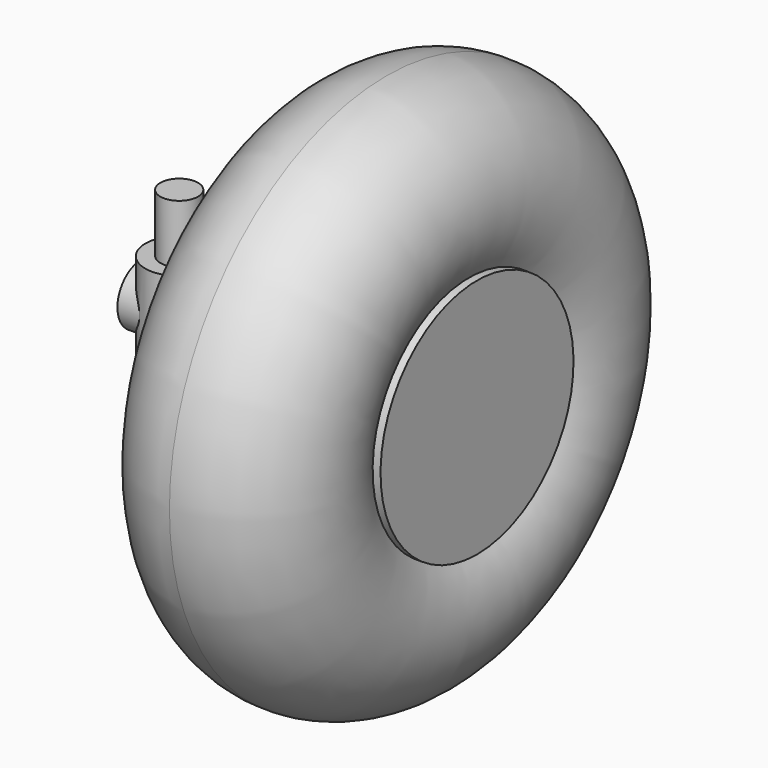
from build123d import *

# Parameters (mm, degrees)
TORUS001_R                = 13
CYLINDER001_R             = 4.5
CYLINDER001_DEPTH         = 12
CYLINDER002_R             = 4
CYLINDER002_DEPTH         = 10
PAD001_DEPTH              = 10
BOX_W                     = 8
BOX_H                     = 15.5
BOX_DEPTH                 = 2
CYLINDER004_R             = 2
CYLINDER004_DEPTH         = 7.5
CYLINDER_R                = 2.5
CYLINDER_DEPTH            = 27.5
CYLINDER003_R             = 1.5
CYLINDER003_DEPTH         = 20
CYLINDER016_R             = 4
CYLINDER016_DEPTH         = 2
BOX003_W                  = 4.6
BOX003_H                  = 1.7
BOX003_DEPTH              = 15
FILLET001_R               = 1
BOX002_W                  = 1.7
BOX002_H                  = 4.6
BOX002_DEPTH              = 15
FILLET_R                  = 1
CYLINDER017_R             = 1.5
CYLINDER017_DEPTH         = 10
PAD003_DEPTH              = 2.5
CYLINDER015_R             = 1.5
CYLINDER015_DEPTH         = 11
CYLINDER014_R             = 8
CYLINDER014_DEPTH         = 12
FILLET002_R               = 3
FUSION005_PLACEMENT_ANGLE = 90
CYLINDER012_R             = 16
CYLINDER012_DEPTH         = 20


with BuildPart() as toro001:
    # Torus001 → Torus001 (revolve)
    with BuildSketch(Plane(origin=(55, 0, 11), x_dir=(0, 0, -1), z_dir=(0, -1, 0))):
        with Locations((23, 0)):
            Circle(TORUS001_R)
    revolve(axis=Axis((55, 0, 11), (1, 0, 0)))


with BuildPart() as cilindro001:
    # Cylinder001 → Cylinder001 (new body)
    with BuildSketch(Plane.XY.offset(-6)):
        Circle(CYLINDER001_R)
    extrude(amount=CYLINDER001_DEPTH)


with BuildPart() as cilindro002:
    # Cylinder002 → Cylinder002 (new body)
    with BuildSketch(Plane(origin=(-5, 0, 0), x_dir=(0, 0, -1), z_dir=(1, 0, 0))):
        Circle(CYLINDER002_R)
    extrude(amount=CYLINDER002_DEPTH)


with BuildPart() as pad001:
    # Sketch001 → Pad001 (new body)
    with BuildSketch(Plane.XY):
        with BuildLine():
            ThreePointArc((4.129921, 10.668605), (-0.003253, 15.63264), (-4.128733, 10.662209))
            Line((-5.229172, 10.780737), (-4.128733, 10.662209))
            Line((-5.229172, 16.944185), (-5.229172, 10.780737))
            Line((5.596368, 16.944185), (-5.229172, 16.944185))
            Line((5.596368, 10.638987), (5.596368, 16.944185))
            Line((4.124442, 10.638987), (5.596368, 10.638987))
            Line((4.129921, 10.668605), (4.124442, 10.638987))
        make_face()
    extrude(amount=PAD001_DEPTH)


with BuildPart() as cut:
    # Box → Box (new body)
    with BuildSketch(Plane(origin=(-4, 0, 0), x_dir=(1, 0, 0), z_dir=(0, 0, 1))):
        with Locations((4, 7.75)):
            Rectangle(BOX_W, BOX_H)
    extrude(amount=BOX_DEPTH)

    # Cut: cut Pad001
    add(pad001.part, mode=Mode.SUBTRACT)


with BuildPart() as cilindro004:
    # Cylinder004 → Cylinder004 (new body)
    with BuildSketch(Plane(origin=(0, 12, -6), x_dir=(1, 0, 0), z_dir=(0, 0, 1))):
        Circle(CYLINDER004_R)
    extrude(amount=CYLINDER004_DEPTH)


with BuildPart() as fusion:
    # Cylinder → Cylinder (new body)
    with BuildSketch(Plane.XY.offset(-13.75)):
        Circle(CYLINDER_R)
    extrude(amount=CYLINDER_DEPTH)

    # Fusion: union Cilindro001, Cilindro002, Cut, Cilindro004
    add(cilindro001.part)
    add(cilindro002.part)
    add(cut.part)
    add(cilindro004.part)


with BuildPart() as fusion_1:
    # Fusion placement: moved
    add(fusion.part.moved(Location((27.5, 0, 11))))


with BuildPart() as cylinder003:
    # Cylinder003 → Cylinder003 (new body)
    with BuildSketch(Plane(origin=(23, 0, 11), x_dir=(0, 0, -1), z_dir=(1, 0, 0))):
        Circle(CYLINDER003_R)
    extrude(amount=CYLINDER003_DEPTH)


with BuildPart() as cilindro014:
    # Cylinder016 → Cylinder016 (new body)
    with BuildSketch(Plane.XY.offset(12)):
        Circle(CYLINDER016_R)
    extrude(amount=CYLINDER016_DEPTH)


with BuildPart() as fillet001:
    # Box003 → Box003 (new body)
    with BuildSketch(Plane(origin=(-2.3, -0.85, 22), x_dir=(1, 0, 0), z_dir=(0, 0, 1))):
        with Locations((2.3, 0.85)):
            Rectangle(BOX003_W, BOX003_H)
    extrude(amount=BOX003_DEPTH)

    # Fillet001
    fillet001_edges = [fillet001.edges().sort_by_distance(p)[0] for p in [
        (-2.3, 0, 37),
        (2.3, 0, 37),
    ]]
    fillet(fillet001_edges, radius=FILLET001_R)


with BuildPart() as fusion003:
    # Box002 → Box002 (new body)
    with BuildSketch(Plane(origin=(-0.85, -2.3, 22), x_dir=(1, 0, 0), z_dir=(0, 0, 1))):
        with Locations((0.85, 2.3)):
            Rectangle(BOX002_W, BOX002_H)
    extrude(amount=BOX002_DEPTH)

    # Fillet
    fillet_edges = [fusion003.edges().sort_by_distance(p)[0] for p in [
        (0, -2.3, 37),
        (0, 2.3, 37),
    ]]
    fillet(fillet_edges, radius=FILLET_R)

    # Fusion003: union Fillet001
    add(fillet001.part)


with BuildPart() as fusion003_1:
    # Fusion003 placement: moved
    add(fusion003.part.moved(Location((0, 0, -8))))


with BuildPart() as taladro_tornillo:
    # Cylinder017 → Cylinder017 (new body)
    with BuildSketch(Plane(origin=(0, 0, 4), x_dir=(1, 0, 0), z_dir=(0, 1, 0))):
        Circle(CYLINDER017_R)
    extrude(amount=CYLINDER017_DEPTH)


with BuildPart() as tuerca:
    # Sketch004 → Pad003 (new body)
    with BuildSketch(Plane(origin=(0, 5, -2), x_dir=(1, 0, 0), z_dir=(0, -1, 0))):
        Polygon((0, 9.412578), (-2.887643, 7.71686), (-2.86293, 4.368228), (-2.86293, 0), (2.93707, 0), (2.93707, 4.411033), (2.912357, 7.759665), align=None)
    extrude(amount=PAD003_DEPTH)


with BuildPart() as hueco:
    # Cylinder015 → Cylinder015 (new body)
    with BuildSketch(Plane.XY):
        Circle(CYLINDER015_R)
    extrude(amount=CYLINDER015_DEPTH)

    # Fusion004: union Taladro tornillo, Tuerca
    add(taladro_tornillo.part)
    add(tuerca.part)


with BuildPart() as fusion005:
    # Cylinder014 → Cylinder014 (new body)
    with BuildSketch(Plane.XY):
        Circle(CYLINDER014_R)
    extrude(amount=CYLINDER014_DEPTH)

    # Fillet002
    fillet002_edges = [fusion005.edges().sort_by_distance(p)[0] for p in [
        (-8, 0, 12),
    ]]
    fillet(fillet002_edges, radius=FILLET002_R)

    # Cut003: cut Hueco
    add(hueco.part, mode=Mode.SUBTRACT)

    # Fusion005: union Cilindro014, Fusion003
    add(cilindro014.part)
    add(fusion003_1.part)


with BuildPart() as fusion005_1:
    # Fusion005 placement: moved
    add(fusion005.part.moved(Location((33, 0, 11))).rotate(Axis((33, 0, 11), (0, 1, 0)), FUSION005_PLACEMENT_ANGLE))


with BuildPart() as fusion010:
    # Cylinder012 → Cylinder012 (new body)
    with BuildSketch(Plane(origin=(47, 0, 11), x_dir=(0, 0, -1), z_dir=(1, 0, 0))):
        Circle(CYLINDER012_R)
    extrude(amount=CYLINDER012_DEPTH)

    # Fusion010: union Toro001, Fusion, Cylinder003, Fusion005
    add(toro001.part)
    add(fusion_1.part)
    add(cylinder003.part)
    add(fusion005_1.part)


solid = fusion010.part
